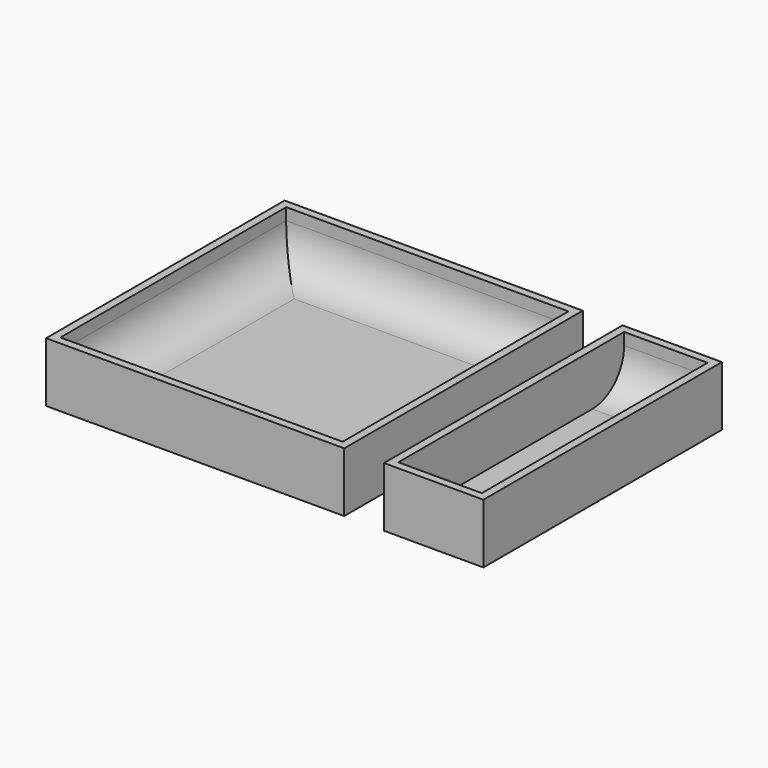
from build123d import *

# Parameters (mm, degrees)
F0_W     = 95.25
F0_H     = 95.25
F0_W_2   = 31.75
F1_DEPTH = 19.05
F2_W     = 90.17
F2_H     = 90.17
F2_W_2   = 26.67
F3_DEPTH = 16.51
F4_R     = 12.7


with BuildPart() as f1:
    # F0 (on Top) → F1 (new body)
    with BuildSketch(Plane.XY):
        Rectangle(F0_W, F0_H)
        with Locations((76.2, 0)):
            Rectangle(F0_W_2, F0_H)
    extrude(amount=F1_DEPTH)

    # F2 (on face) → F3 (cut)
    with BuildSketch(Plane.XY.offset(19.05)):
        Rectangle(F2_W, F2_H)
        with Locations((76.2, 0)):
            Rectangle(F2_W_2, F2_H)
    extrude(amount=-F3_DEPTH, mode=Mode.SUBTRACT)

    # F4
    f4_edges = [f1.edges().sort_by_distance(p)[0] for p in [
        (45.085, 0, 2.54),
        (0, 45.085, 2.54),
        (-45.085, 0, 2.54),
        (0, -45.085, 2.54),
        (76.2, 45.085, 2.54),
        (76.2, -45.085, 2.54),
    ]]
    fillet(f4_edges, radius=F4_R)


solid = f1.part
